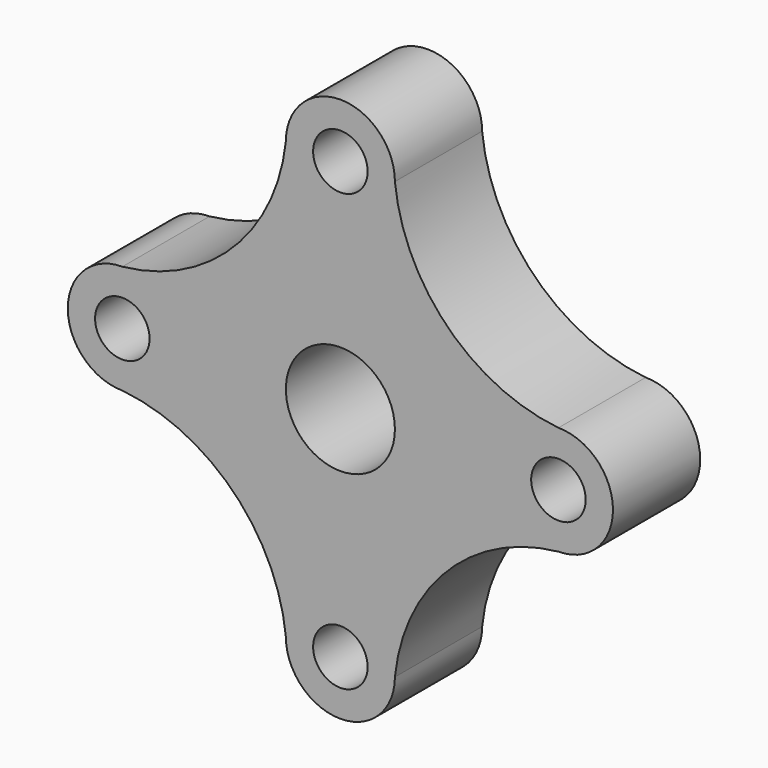
from build123d import *

# Parameters (mm, degrees)
F0_R     = 6.35
F0_R_2   = 12.7
F1_DEPTH = 25.4


with BuildPart() as f1:
    # F0 (on Front) → F1 (new body)
    with BuildSketch(Plane.XZ):
        with BuildLine():
            ThreePointArc((-12.984713, 51.275665), (-25.311381, 25.502333), (-51.084713, 13.175665))
            ThreePointArc((-51.084713, 13.175665), (-63.784713, 0.475665), (-51.084713, -12.224335))
            ThreePointArc((-51.084713, -12.224335), (-25.266476, -24.506099), (-12.984713, -50.324335))
            ThreePointArc((-12.984713, -50.324335), (-0.284713, -63.024335), (12.415287, -50.324335))
            ThreePointArc((12.415287, -50.324335), (24.697063, -24.506111), (50.515287, -12.224335))
            ThreePointArc((50.515287, -12.224335), (63.215287, 0.475665), (50.515287, 13.175665))
            ThreePointArc((50.515287, 13.175665), (24.697074, 25.457452), (12.415287, 51.275665))
            ThreePointArc((12.415287, 51.275665), (-0.284713, 63.975665), (-12.984713, 51.275665))
        make_face()
        with Locations((-0.284713, -50.324335)):
            Circle(F0_R, mode=Mode.SUBTRACT)
        with Locations((-51.084713, 0.475665)):
            Circle(F0_R, mode=Mode.SUBTRACT)
        with Locations((-0.284713, 0.475665)):
            Circle(F0_R_2, mode=Mode.SUBTRACT)
        with Locations((-0.284713, 51.275665)):
            Circle(F0_R, mode=Mode.SUBTRACT)
        with Locations((50.515287, 0.475665)):
            Circle(F0_R, mode=Mode.SUBTRACT)
    extrude(amount=F1_DEPTH)


solid = f1.part
